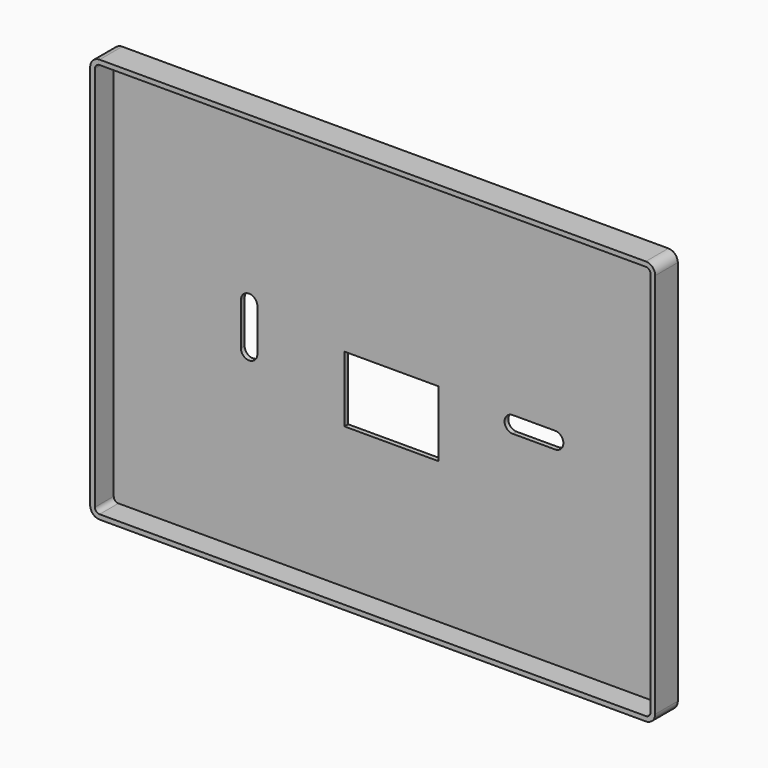
from build123d import *

# Parameters (mm, degrees)
F0_W     = 120
F0_H     = 86
F0_W_2   = 20
F0_H_2   = 14
F1_DEPTH = 6
F2_R     = 2
F3_T     = -1


with BuildPart() as f1:
    # F0 (on Front) → F1 (new body)
    with BuildSketch(Plane.XZ):
        Rectangle(F0_W, F0_H)
        with Locations((0, -5)):
            Rectangle(F0_W_2, F0_H_2, mode=Mode.SUBTRACT)
        with BuildLine():
            Line((-28.5, 4.5), (-28.5, -4.5))
            ThreePointArc((-28.5, -4.5), (-30.25, -6.25), (-32, -4.5))
            Line((-32, -4.5), (-32, 4.5))
            ThreePointArc((-32, 4.5), (-30.25, 6.25), (-28.5, 4.5))
        make_face(mode=Mode.SUBTRACT)
        with BuildLine():
            Line((34.75, -1.75), (25.75, -1.75))
            ThreePointArc((25.75, -1.75), (24, 0), (25.75, 1.75))
            Line((25.75, 1.75), (34.75, 1.75))
            ThreePointArc((34.75, 1.75), (36.5, 0), (34.75, -1.75))
        make_face(mode=Mode.SUBTRACT)
    extrude(amount=F1_DEPTH)

    # F2
    f2_edges = [f1.edges().sort_by_distance(p)[0] for p in [
        (-60, -3, -43),
        (-60, -3, 43),
        (60, -3, 43),
        (60, -3, -43),
    ]]
    fillet(f2_edges, radius=F2_R)

    # F3
    f3_openings = [f1.faces().sort_by_distance(p)[0] for p in [
        (-28.5, -3, 0),
        (-30.25, -3, 6.25),
        (-32, -3, 0),
        (-30.25, -3, -6.25),
        (10, -3, -5),
        (0, -3, 2),
        (58.523653, -6, 0),
        (0, -3, -12),
        (-10, -3, -5),
        (30.25, -3, 1.75),
        (36.5, -3, 0),
        (24, -3, 0),
        (30.25, -3, -1.75),
    ]]
    offset(amount=F3_T, openings=f3_openings)


solid = f1.part
